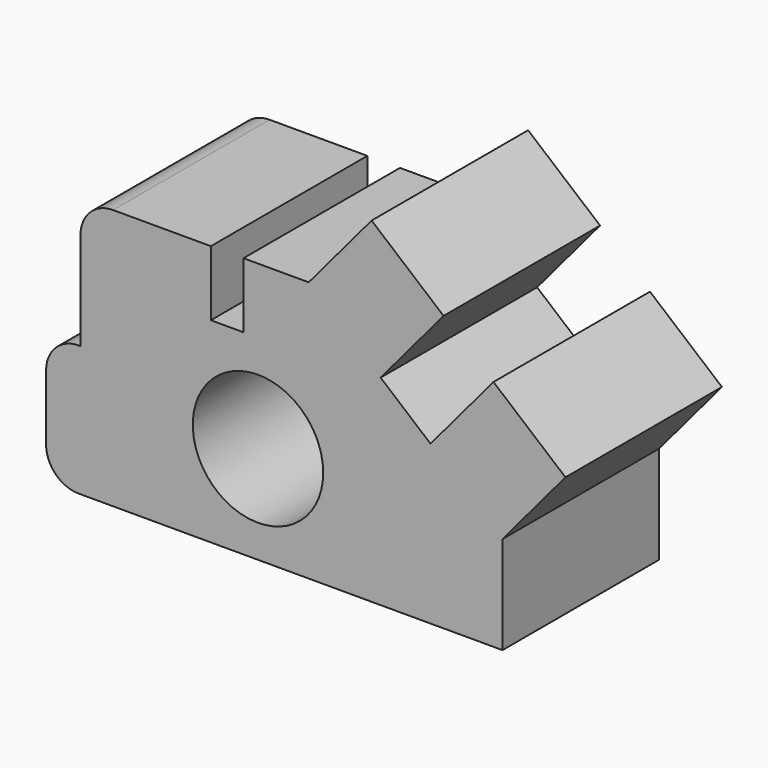
from build123d import *

# Parameters (mm, degrees)
F0_R     = 10
F1_DEPTH = 30


with BuildPart() as f1:
    # F0 (on Front) → F1 (new body)
    with BuildSketch(Plane.XZ):
        with BuildLine():
            ThreePointArc((-32.5, -10), (-31.035534, -13.535534), (-27.5, -15))
            Line((-27.5, -15), (37.5, -15))
            Line((37.5, -15), (37.5, 0))
            Line((37.5, 0), (47.15451, 11.480002))
            Line((47.15451, 11.480002), (36.117656, 20.761832))
            Line((36.117656, 20.761832), (26.463146, 9.28183))
            Line((26.463146, 9.28183), (18.809811, 15.71817))
            Line((18.809811, 15.71817), (28.464321, 27.198172))
            Line((28.464321, 27.198172), (17.427467, 36.480002))
            Line((17.427467, 36.480002), (7.772957, 25))
            Line((7.772957, 25), (-2.227043, 25))
            Line((-2.227043, 25), (-2.227043, 15))
            Line((-2.227043, 15), (-7.227043, 15))
            Line((-7.227043, 15), (-7.227043, 25))
            Line((-7.227043, 25), (-22.227043, 25))
            ThreePointArc((-22.227043, 25), (-25.762577, 23.535534), (-27.227043, 20))
            Line((-27.227043, 20), (-27.227043, 5))
            Line((-27.227043, 5), (-27.5, 5))
            ThreePointArc((-27.5, 5), (-31.035534, 3.535534), (-32.5, 0))
            Line((-32.5, 0), (-32.5, -10))
        make_face()
        Circle(F0_R, mode=Mode.SUBTRACT)
    extrude(amount=F1_DEPTH)


solid = f1.part
